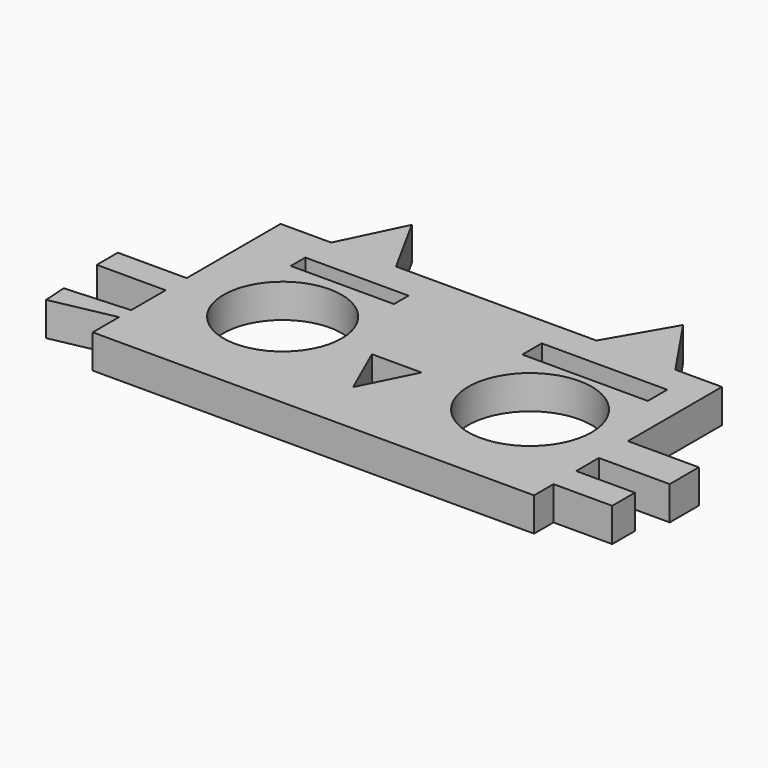
from build123d import *

# Parameters (mm, degrees)
F0_R     = 8.754813
F0_R_2   = 9.147514
F0_W     = 15.3
F0_H     = 2.700001
F0_W_2   = 18.599999
F0_H_2   = 3.600002
F0_W_3   = 10.200001
F0_H_3   = 3.9
F0_W_4   = 10.499999
F0_H_4   = 5.400001
F0_W_5   = 8.699998
F0_H_5   = 4.200002
F1_DEPTH = 5


with BuildPart() as f1:
    # F0 (on Top) → F1 (new body)
    with BuildSketch(Plane.XY):
        Polygon((-21.15, 43.500002), (-28.650001, 43.500002), (-28.650001, 26.100001), (-28.650001, 22.200001), (-28.650001, 15.815401), (-28.650001, 13.574124), (-28.650001, 8.7), (36.750004, 8.7), (36.750004, 12.3), (36.750004, 16.500002), (36.750004, 20.7), (36.750004, 26.100001), (36.750004, 43.500002), (29.849999, 43.500002), (18.150002, 43.500002), (-11.55, 43.500002), align=None)
        Polygon((3.450001, 16.800001), (0, 24.599999), (7.350001, 24.599999), align=None, mode=Mode.SUBTRACT)
        with Locations((-13.95, 25.500001)):
            Circle(F0_R, mode=Mode.SUBTRACT)
        with Locations((22.950001, 25.2)):
            Circle(F0_R_2, mode=Mode.SUBTRACT)
        with Locations((-13.5, 37.350002)):
            Rectangle(F0_W, F0_H, mode=Mode.SUBTRACT)
        with Locations((22.949998, 37.2)):
            Rectangle(F0_W_2, F0_H_2, mode=Mode.SUBTRACT)
        Polygon((-16.650001, 52.800003), (-21.15, 43.500002), (-11.55, 43.500002), align=None)
        with Locations((-33.750001, 24.150001)):
            Rectangle(F0_W_3, F0_H_3)
        Polygon((23.55, 52.800003), (18.150002, 43.500002), (29.849999, 43.500002), align=None)
        Polygon((-28.650001, 13.574124), (-28.650001, 15.815401), (-38.170767, 15.224128), (-37.950746, 11.681323), align=None)
        with Locations((42.000003, 23.4)):
            Rectangle(F0_W_4, F0_H_4)
        with Locations((41.100003, 14.400001)):
            Rectangle(F0_W_5, F0_H_5)
    extrude(amount=F1_DEPTH)


solid = f1.part
